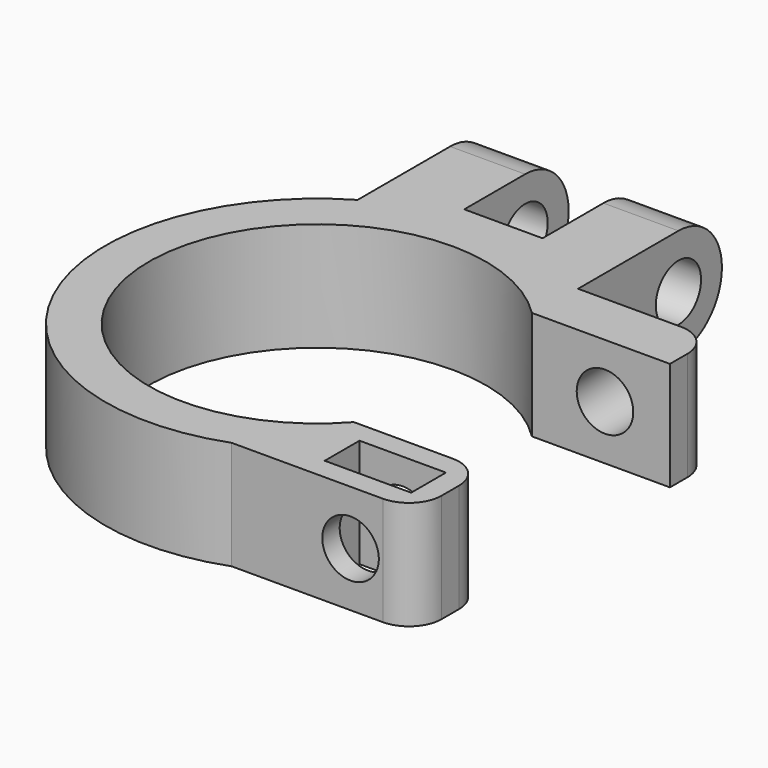
from build123d import *

# Parameters (mm, degrees)
F0_W     = 7.95
F0_H     = 4
F1_DEPTH = 10
F2_R     = 2.6
F3_DEPTH = 21
F4_R     = 2.6
F5_DEPTH = 50
F6_R     = 3


with BuildPart() as f1:
    # F0 (on Top) → F1 (new body)
    with BuildSketch(Plane.XY):
        with BuildLine():
            Line((23.658212, 10.958917), (23.658212, 15.958917))
            Line((23.658212, 15.958917), (11.205489, 15.958917))
            Line((11.205489, 15.958917), (11.205489, 32.5))
            Line((11.205489, 32.5), (4.305489, 32.5))
            Line((4.305489, 32.5), (4.305489, 20.5))
            Line((4.305489, 20.5), (-2.894511, 20.5))
            Line((-2.894511, 20.5), (-2.894511, 32.5))
            Line((-2.894511, 32.5), (-9.794511, 32.5))
            Line((-9.794511, 32.5), (-9.794511, 16.861718))
            ThreePointArc((-9.794511, 16.861718), (-17.643481, -8.304071), (6.751771, -18.293813))
            Line((6.751771, -18.293813), (12.970301, -18.293813))
            Line((12.970301, -18.293813), (23.658212, -18.293813))
            Line((23.658212, -18.293813), (23.658212, -10.293813))
            Line((23.658212, -10.293813), (11.588245, -10.293813))
            ThreePointArc((11.588245, -10.293813), (-15.493262, -0.456975), (10.961393, 10.958917))
            Line((10.961393, 10.958917), (23.658212, 10.958917))
        make_face()
        with Locations((17.683212, -14.293813)):
            Rectangle(F0_W, F0_H, mode=Mode.SUBTRACT)
    extrude(amount=F1_DEPTH)

    # F2 (on face) → F3 (cut, through all)
    with BuildSketch(Plane.YZ.offset(11.205489)):
        with BuildLine():
            ThreePointArc((32.5, 5), (31.035534, 1.464466), (27.5, 0))
            Line((27.5, 0), (32.5, 0))
            Line((32.5, 0), (32.5, 5))
        make_face()
        with BuildLine():
            ThreePointArc((27.5, 10), (31.035534, 8.535534), (32.5, 5))
            Line((32.5, 5), (32.5, 10))
            Line((32.5, 10), (27.5, 10))
        make_face()
        with Locations((27.5, 5)):
            Circle(F2_R)
    extrude(amount=-F3_DEPTH, mode=Mode.SUBTRACT)

    # F4 (on face) → F5 (cut, symmetric)
    with BuildSketch(Plane(origin=(0, -16.293813, 0), x_dir=(-1, 0, 0), z_dir=(0, 1, 0))):
        with Locations((-17.683212, 5)):
            Circle(F4_R)
    extrude(amount=F5_DEPTH, both=True, mode=Mode.SUBTRACT)

    # F6
    f6_edges = [f1.edges().sort_by_distance(p)[0] for p in [
        (23.658212, 15.958917, 5),
        (23.658212, -10.293813, 5),
        (23.658212, -18.293813, 5),
    ]]
    fillet(f6_edges, radius=F6_R)


solid = f1.part
